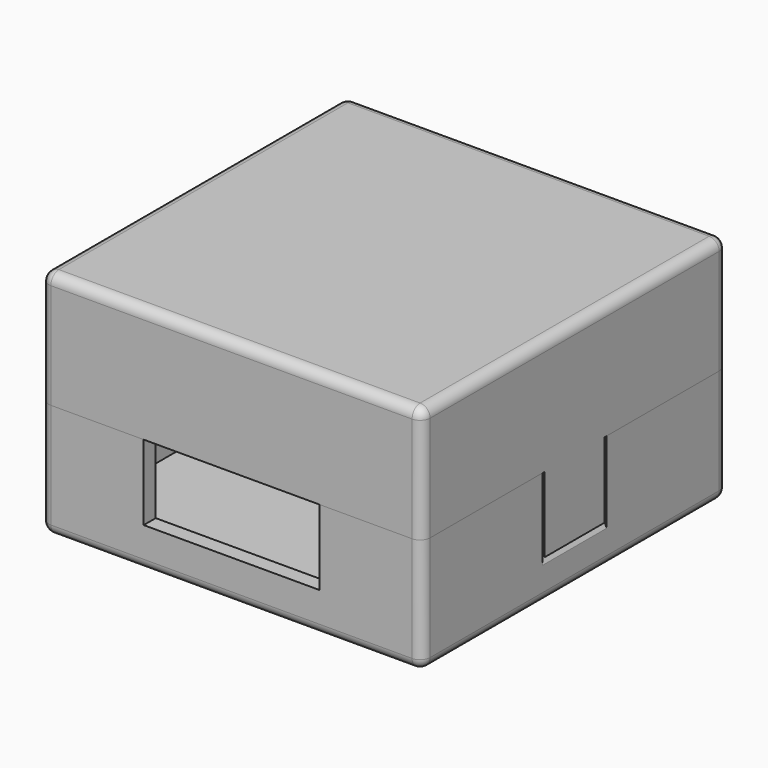
from build123d import *

# Parameters (mm, degrees)
F0_W      = 76
F0_H      = 76
F0_W_2    = 70
F0_H_2    = 70
F1_DEPTH  = 3
F2_DEPTH  = 20
F4_W      = 35
F4_H      = 15
F5_DEPTH  = 3
F6_W      = 52
F6_H      = 15
F7_DEPTH  = 3
F9_DEPTH  = 8
F10_DEPTH = 7.5
F11_R     = 2
F11_2_R   = 2


with BuildPart() as f1:
    # F0 (on Top) → F1 (new body)
    with BuildSketch(Plane.XY):
        Rectangle(F0_W, F0_H)
        Rectangle(F0_W_2, F0_H_2, mode=Mode.SUBTRACT)
        Rectangle(F0_W_2, F0_H_2)
    extrude(amount=-F1_DEPTH)

    # F0 (on Top) → F2 (join)
    with BuildSketch(Plane.XY):
        Rectangle(F0_W, F0_H)
        Rectangle(F0_W_2, F0_H_2, mode=Mode.SUBTRACT)
    extrude(amount=F2_DEPTH)


with BuildPart() as f3_1:
    # F3: instance of F1
    add(f1.part.mirror(Plane.XY.offset(20)))

    # F6 (on face) → F7 (cut, through all)
    with BuildSketch(Plane(origin=(0, 38, 0), x_dir=(-1, 0, 0), z_dir=(0, 1, 0))):
        with Locations((0, 27.5)):
            Rectangle(F6_W, F6_H)
    extrude(amount=-F7_DEPTH, mode=Mode.SUBTRACT)

    # F8 (on Front) → F10 (join, symmetric)
    with BuildSketch(Plane.XZ):
        with BuildLine():
            ThreePointArc((-36.4886499851, 18.7613500149), (-36.125857804, 19.6372078189), (-35.25, 20))
            Line((-35.25, 20), (-38, 20))
            Line((-38, 20), (-38, 5))
            Line((-38, 5), (-36.6, 7.4248711306))
            Line((-36.6, 7.4248711306), (-37.3, 7.4248711306))
            Line((-37.3, 7.4248711306), (-36.4886499851, 18.7613500149))
        make_face()
        with BuildLine():
            Line((38, 5), (38, 20))
            Line((38, 20), (36.4, 20))
            Line((36.4, 20), (35.25, 20))
            ThreePointArc((35.25, 20), (36.125857804, 19.6372078189), (36.4886499851, 18.7613500149))
            Line((36.4886499851, 18.7613500149), (37.3, 7.4248711306))
            Line((37.3, 7.4248711306), (36.6, 7.4248711306))
            Line((36.6, 7.4248711306), (38, 5))
        make_face()
    extrude(amount=F10_DEPTH, both=True)

    # F11
    f11_edges = [f3_1.edges().sort_by_distance(p)[0] for p in [
        (-38, -38, 31.5),
        (0, -38, 43),
        (-38, 0, 43),
        (-38, 38, 31.5),
        (0, 38, 43),
        (38, 38, 31.5),
        (38, 0, 43),
        (38, -38, 31.5),
    ]]
    fillet(f11_edges, radius=F11_R)


with BuildPart() as f1_1:
    add(f1.part)

    # F4 (on face) → F5 (cut, through all)
    with BuildSketch(Plane.XZ.offset(38)):
        with Locations((0, 12.5)):
            Rectangle(F4_W, F4_H)
    extrude(amount=-F5_DEPTH, mode=Mode.SUBTRACT)

    # F8 (on Front) → F9 (cut, symmetric)
    with BuildSketch(Plane.XZ):
        with BuildLine():
            ThreePointArc((-36.2380105226, 18.7613500149), (-35.8498934739, 19.6114440223), (-35, 20))
            Line((-35, 20), (-35.25, 20))
            ThreePointArc((-35.25, 20), (-36.125857804, 19.6372078189), (-36.4886499851, 18.7613500149))
            Line((-36.4886499851, 18.7613500149), (-37.3, 7.4248711306))
            Line((-37.3, 7.4248711306), (-36.6, 7.4248711306))
            Line((-36.6, 7.4248711306), (-38, 5))
            Line((-38, 5), (-38, 3.8114462404))
            Line((-38, 3.8114462404), (-36.2085029195, 7.6748711306))
            Line((-36.2085029195, 7.6748711306), (-37.0314680767, 7.6748711306))
            Line((-37.0314680767, 7.6748711306), (-36.2380105226, 18.7613500149))
        make_face()
        with BuildLine():
            ThreePointArc((-36.4886499851, 18.7613500149), (-36.125857804, 19.6372078189), (-35.25, 20))
            Line((-35.25, 20), (-38, 20))
            Line((-38, 20), (-38, 5))
            Line((-38, 5), (-36.6, 7.4248711306))
            Line((-36.6, 7.4248711306), (-37.3, 7.4248711306))
            Line((-37.3, 7.4248711306), (-36.4886499851, 18.7613500149))
        make_face()
        with BuildLine():
            Line((38, 5), (38, 20))
            Line((38, 20), (36.4, 20))
            Line((36.4, 20), (35.25, 20))
            ThreePointArc((35.25, 20), (36.125857804, 19.6372078189), (36.4886499851, 18.7613500149))
            Line((36.4886499851, 18.7613500149), (37.3, 7.4248711306))
            Line((37.3, 7.4248711306), (36.6, 7.4248711306))
            Line((36.6, 7.4248711306), (38, 5))
        make_face()
        with BuildLine():
            Line((38, 3.8114462404), (38, 5))
            Line((38, 5), (36.6, 7.4248711306))
            Line((36.6, 7.4248711306), (37.3, 7.4248711306))
            Line((37.3, 7.4248711306), (36.4886499851, 18.7613500149))
            ThreePointArc((36.4886499851, 18.7613500149), (36.125857804, 19.6372078189), (35.25, 20))
            Line((35.25, 20), (35, 20))
            ThreePointArc((35, 20), (35.8498934739, 19.6114440223), (36.2380105226, 18.7613500149))
            Line((36.2380105226, 18.7613500149), (37.0314680767, 7.6748711306))
            Line((37.0314680767, 7.6748711306), (36.2085029195, 7.6748711306))
            Line((36.2085029195, 7.6748711306), (38, 3.8114462404))
        make_face()
    extrude(amount=F9_DEPTH, both=True, mode=Mode.SUBTRACT)

    # F11#2
    f11_2_edges = [f1_1.edges().sort_by_distance(p)[0] for p in [
        (-38, -38, 8.5),
        (0, -38, -3),
        (-38, 0, -3),
        (-38, 38, 8.5),
        (0, 38, -3),
        (38, 38, 8.5),
        (38, 0, -3),
        (38, -38, 8.5),
    ]]
    fillet(f11_2_edges, radius=F11_2_R)


solid = Compound([f3_1.part, f1_1.part])
